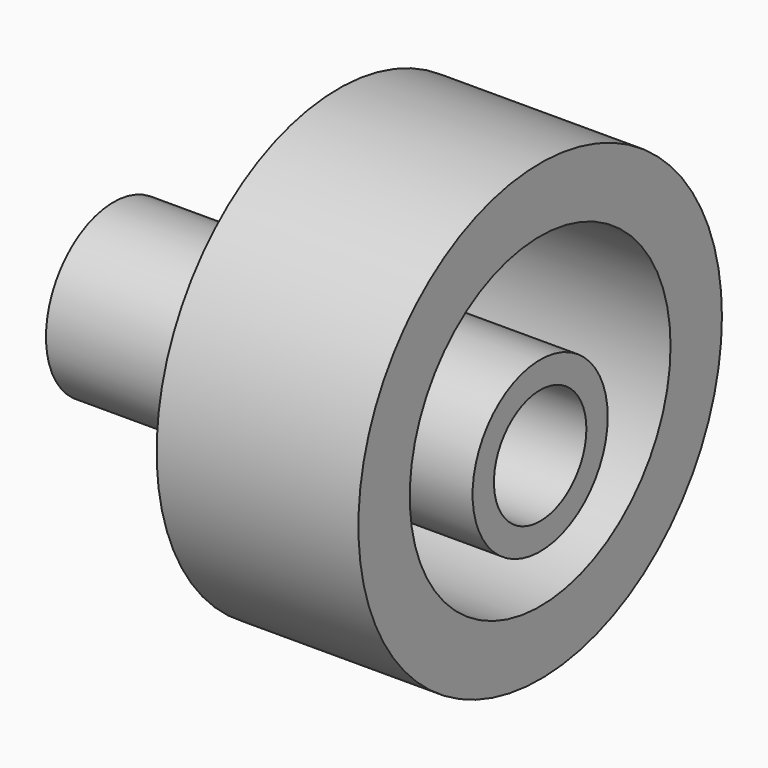
from build123d import *

# Parameters (mm, degrees)
F0_R        = 47.479265
F0_R_2      = 34.061459
F1_DEPTH    = 16.764
F1_FACE_R   = 47.479265
F1_FACE_R_2 = 34.061459
F2_DEPTH    = 25.4
F3_R        = 17.64841
F3_R_2      = 12.072105
F4_DEPTH    = 89.154


with BuildPart() as f1:
    # F0 (on Right) → F1 (new body)
    with BuildSketch(Plane.YZ):
        Circle(F0_R)
        Circle(F0_R_2, mode=Mode.SUBTRACT)
    extrude(amount=F1_DEPTH)

    # F1_face (on face) → F2 (join)
    with BuildSketch(Plane.YZ.offset(16.764)):
        Circle(F1_FACE_R)
        Circle(F1_FACE_R_2, mode=Mode.SUBTRACT)
    extrude(amount=F2_DEPTH)


with BuildPart() as f4:
    # F3 (on face) → F4 (new body)
    with BuildSketch(Plane.YZ.offset(42.164)):
        with Locations((0, -6.317003)):
            Circle(F3_R)
        with Locations((0, -6.317003)):
            Circle(F3_R_2, mode=Mode.SUBTRACT)
    extrude(amount=-F4_DEPTH)


solid = Compound([f1.part, f4.part])
